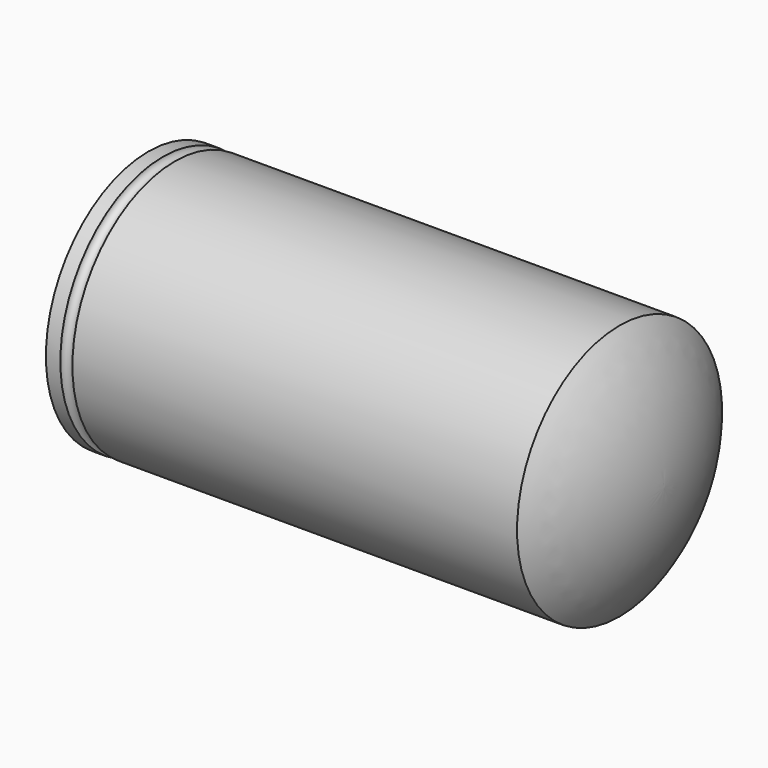
from build123d import *


with BuildPart() as f1:
    # F0 (on Front) → F1 (revolve)
    with BuildSketch(Plane.XZ):
        with BuildLine():
            ThreePointArc((74.342646, -17), (71.191952, 0.965046), (62.5, 17))
            Line((62.5, 17), (62.5, -17))
            Line((62.5, -17), (62.50909, -17))
            Line((62.50909, -17), (74.342646, -17))
        make_face()
        with BuildLine():
            Line((62.5, -17), (62.5, 17))
            Line((62.5, 17), (-55.471037, 17))
            ThreePointArc((-55.471037, 17), (-57.071077, 15.57729), (-58.671117, 17))
            Line((-58.671117, 17), (-62.5, 17))
            Line((-62.5, 17), (-62.5, -17))
            Line((-62.5, -17), (62.5, -17))
        make_face()
    revolve(axis=Axis((0, 0, -17), (-1, 0, 0)))


solid = f1.part
